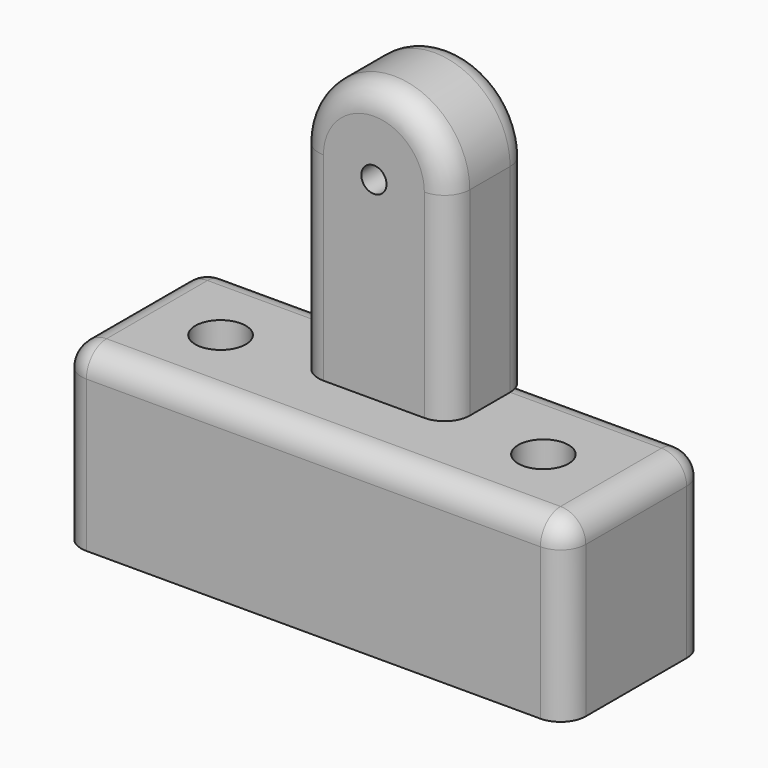
from build123d import *

# Parameters (mm, degrees)
F0_W     = 100
F0_H     = 35
F1_DEPTH = 35
F2_W     = 30
F2_H     = 39.4117633874
F3_DEPTH = 20
F4_R     = 5
F4_2_R   = 5
F5_R     = 5.0079827635
F5_R_2   = 5
F6_DEPTH = 50
F7_R     = 2.5
F8_DEPTH = 30


with BuildPart() as f1:
    # F0 (on Front) → F1 (new body)
    with BuildSketch(Plane.XZ):
        with Locations((0, -25.3289474839)):
            Rectangle(F0_W, F0_H)
    extrude(amount=F1_DEPTH)

    # F4#2
    f4_2_edges = [f1.edges().sort_by_distance(p)[0] for p in [
        (-50, -17.5, -7.828947),
        (-50, 0, -25.328947),
        (-50, -35, -25.328947),
        (0, 0, -7.828947),
        (0, -35, -7.828947),
        (50, -17.5, -7.828947),
        (50, -35, -25.328947),
        (50, 0, -25.328947),
    ]]
    fillet(f4_2_edges, radius=F4_2_R)

    # F5 (on Top) → F6 (cut)
    with BuildSketch(Plane.XY):
        with Locations((-32, -18)):
            Circle(F5_R)
        with Locations((32, -18)):
            Circle(F5_R_2)
    extrude(amount=-F6_DEPTH, mode=Mode.SUBTRACT)


with BuildPart() as f3:
    # F2 (on Front) → F3 (new body)
    with BuildSketch(Plane.XZ):
        with Locations((0, 11.8784913793)):
            Rectangle(F2_W, F2_H)
        with BuildLine():
            ThreePointArc((15, 31.584373073), (0, 46.584373073), (-15, 31.584373073))
            Line((-15, 31.584373073), (15, 31.584373073))
        make_face()
    extrude(amount=F3_DEPTH)

    # F4
    f4_edges = [f3.edges().sort_by_distance(p)[0] for p in [
        (0, 0, 46.584373),
        (0, -20, 46.584373),
    ]]
    fillet(f4_edges, radius=F4_R)

    # F7 (on Front) → F8 (cut)
    with BuildSketch(Plane.XZ):
        with Locations((0, 30.5058586667)):
            Circle(F7_R)
    extrude(amount=F8_DEPTH, mode=Mode.SUBTRACT)


solid = Compound([f1.part, f3.part])
